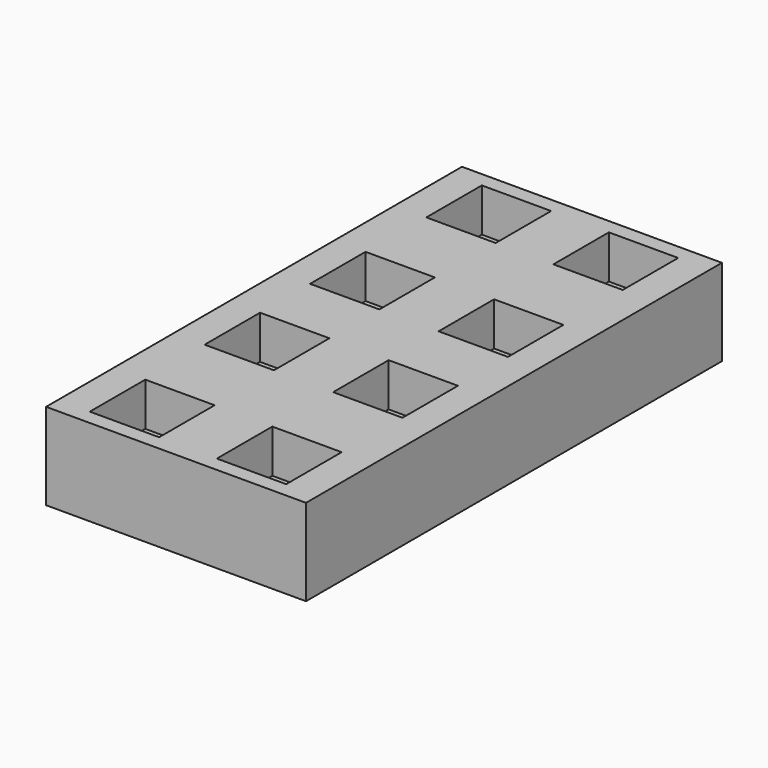
from build123d import *

# Parameters (mm, degrees)
F0_W     = 76.2
F0_H     = 152.4
F1_DEPTH = 25.4
F2_W     = 20.32
F2_H     = 20.32
F3_DEPTH = 12.7


with BuildPart() as f1:
    # F0 (on Top) → F1 (new body)
    with BuildSketch(Plane.XY):
        Rectangle(F0_W, F0_H)
    extrude(amount=-F1_DEPTH)

    # F2 (on face) → F3 (cut)
    with BuildSketch(Plane.XY):
        with Locations((-18.621309, 61.657559)):
            Rectangle(F2_W, F2_H)
        with Locations((18.621309, 61.657559)):
            Rectangle(F2_W, F2_H)
        with Locations((18.621309, -61.657559)):
            Rectangle(F2_W, F2_H)
        with Locations((-18.621309, -61.657559)):
            Rectangle(F2_W, F2_H)
        with Locations((-18.840398, 19.318015)):
            Rectangle(F2_W, F2_H)
        with Locations((18.840398, 19.318015)):
            Rectangle(F2_W, F2_H)
        with Locations((-18.840398, -19.318015)):
            Rectangle(F2_W, F2_H)
        with Locations((18.840398, -19.318015)):
            Rectangle(F2_W, F2_H)
    extrude(amount=-F3_DEPTH, mode=Mode.SUBTRACT)


solid = f1.part
